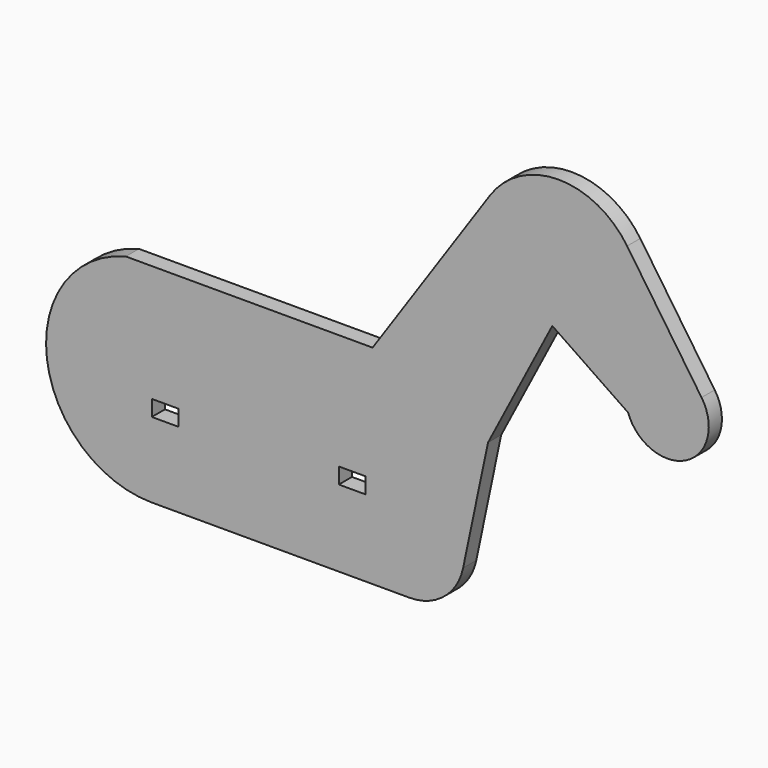
from build123d import *

# Parameters (mm, degrees)
F1_DEPTH = 3
F2_R     = 10
F3_W     = 4.9
F3_H     = 2.9
F4_DEPTH = 25
F5_DEPTH = 25


with BuildPart() as f1:
    # F0 (on Front) → F1 (new body)
    with BuildSketch(Plane.XZ):
        with BuildLine():
            ThreePointArc((-43.741338, 0), (-58.121657, -21.069105), (-38.998462, -37.951171))
            Line((-38.998462, -37.951171), (16.091859, -37.951171))
            Line((16.091859, -37.951171), (22.294076, -8.399412))
            Line((22.294076, -8.399412), (34.020763, 14.150426))
            Line((34.020763, 14.150426), (40.711638, 9.589177))
            Line((40.711638, 9.589177), (47.832642, 4.734704))
            ThreePointArc((47.832642, 4.734704), (58.386807, 0.478115), (61.229721, 11.497498))
            Line((61.229721, 11.497498), (47.663182, 31.398193))
            ThreePointArc((47.663182, 31.398193), (35.163182, 38.005054), (22.663182, 31.398193))
            Line((22.663182, 31.398193), (1.258662, 0))
            Line((1.258662, 0), (-43.741338, 0))
        make_face()
    extrude(amount=F1_DEPTH)

    # F2
    f2_edges = [f1.edges().sort_by_distance(p)[0] for p in [
        (16.091859, -1.5, -37.951171),
    ]]
    fillet(f2_edges, radius=F2_R)

    # F3 (on Front) → F4 (cut)
    with BuildSketch(Plane.XZ):
        with Locations((-36.54559, -22.766416)):
            Rectangle(F3_W, F3_H)
        with Locations((-2.45, -22.52518)):
            Rectangle(F3_W, F3_H)
    extrude(amount=-F4_DEPTH, mode=Mode.SUBTRACT)

    # F3 (on Front) → F5 (cut)
    with BuildSketch(Plane.XZ):
        with Locations((-36.54559, -22.766416)):
            Rectangle(F3_W, F3_H)
        with Locations((-2.45, -22.52518)):
            Rectangle(F3_W, F3_H)
    extrude(amount=F5_DEPTH, mode=Mode.SUBTRACT)


solid = f1.part
